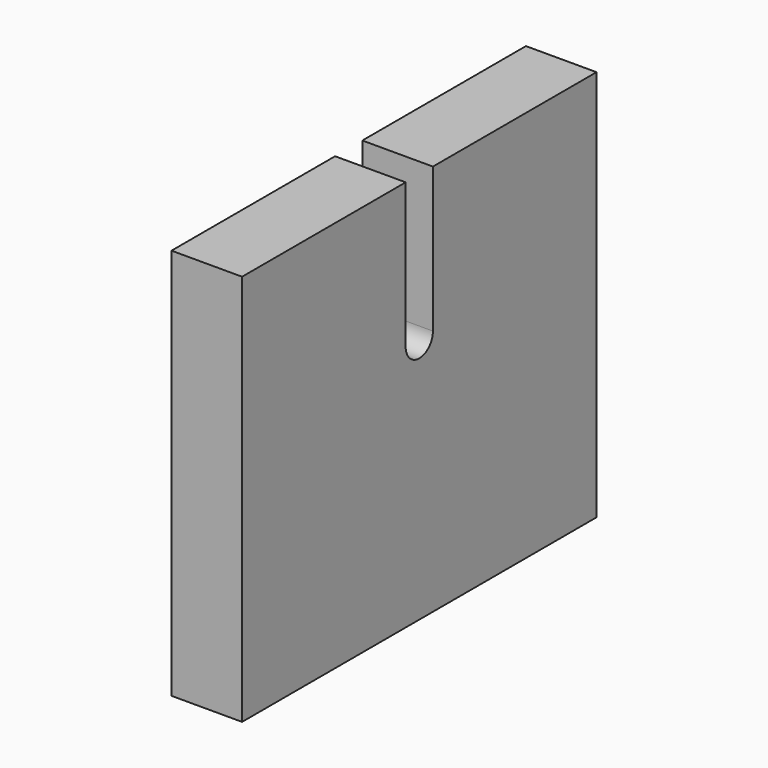
from build123d import *

# Parameters (mm, degrees)
F1_DEPTH = 52.60802


with BuildPart() as f1:
    # F0 (on Right) → F1 (new body)
    with BuildSketch(Plane.YZ):
        with BuildLine():
            Line((-165.1, 146.05), (-165.1, -146.05))
            Line((-165.1, -146.05), (165.1, -146.05))
            Line((165.1, -146.05), (165.1, 146.05))
            Line((165.1, 146.05), (12.7, 146.05))
            Line((12.7, 146.05), (12.7, 38.1))
            ThreePointArc((12.7, 38.1), (0, 25.4), (-12.7, 38.1))
            Line((-12.7, 38.1), (-12.7, 146.05))
            Line((-12.7, 146.05), (-165.1, 146.05))
        make_face()
    extrude(amount=F1_DEPTH)


solid = f1.part
